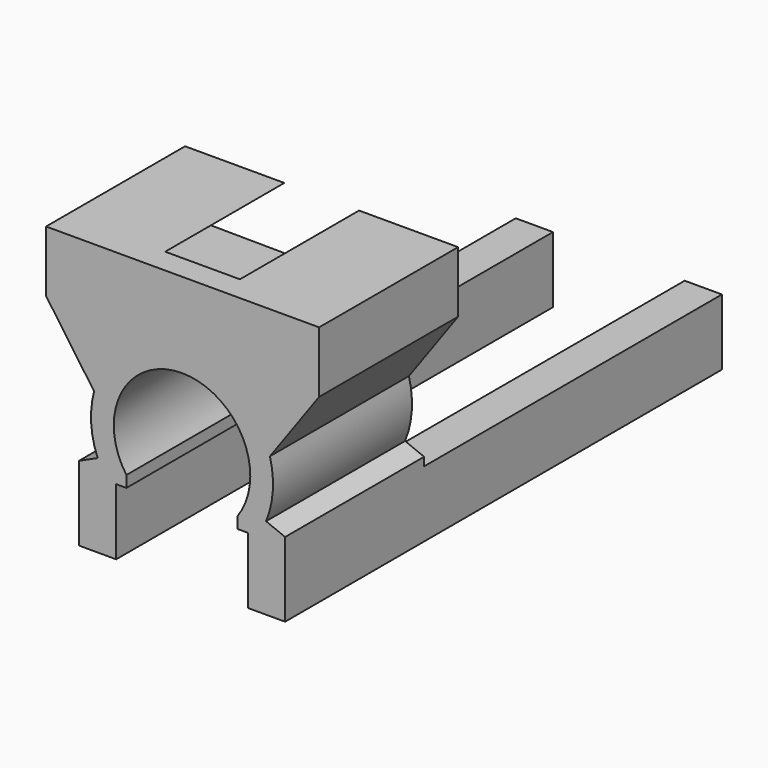
from build123d import *

# Parameters (mm, degrees)
F1_DEPTH = 7
F2_DEPTH = 6
F3_DEPTH = 15


with BuildPart() as f1:
    # F0 (on Front) → F1 (new body)
    with BuildSketch(Plane.XZ):
        with BuildLine():
            ThreePointArc((-3.477884, 0.719832), (-3.596369, -0.44229), (-3.343322, -1.5827))
            Line((-3.343322, -1.5827), (-3.322458, -1.593981))
            Line((-3.322458, -1.593981), (-3.322458, -2.283465))
            Line((-3.322458, -2.283465), (-2.589551, -2.283465))
            Line((-2.589551, -2.283465), (-2.176465, -2.283465))
            Line((-2.176465, -2.283465), (-2.176465, -1.823074))
            ThreePointArc((-2.176465, -1.823074), (0.063946, 2.521621), (2.304358, -1.823074))
            Line((2.304358, -1.823074), (2.304358, -2.283465))
            Line((2.304358, -2.283465), (2.717444, -2.283465))
            Line((2.717444, -2.283465), (3.450351, -2.283465))
            Line((3.450351, -2.283465), (3.450351, -1.634055))
            ThreePointArc((3.450351, -1.634055), (3.72254, -0.469953), (3.605777, 0.719832))
            ThreePointArc((3.605777, 0.719832), (2.307299, 2.6718), (0.091662, 3.438077))
            ThreePointArc((0.091662, 3.438077), (-2.157419, 2.688675), (-3.477884, 0.719832))
        make_face()
        Polygon((-3.322458, -2.283465), (-3.322458, -1.593981), (-4.089551, -1.943924), (-4.089551, -2.283465), align=None)
        with BuildLine():
            Line((-5.413338, 3.472093), (-3.477884, 0.719832))
            ThreePointArc((-3.477884, 0.719832), (-2.157419, 2.688675), (0.091662, 3.438077))
            Line((0.091662, 3.438077), (-4.408209, 3.472093))
            Line((-4.408209, 3.472093), (-1.413338, 5.938077))
            Line((-1.413338, 5.938077), (-5.413338, 5.938077))
            Line((-5.413338, 5.938077), (-5.413338, 3.472093))
        make_face()
        Polygon((-2.589551, -2.283465), (-3.322458, -2.283465), (-4.089551, -2.283465), (-4.089551, -4.949721), (-3.322458, -4.949721), (-2.589551, -4.949721), align=None)
        with BuildLine():
            Line((4.591534, 3.404061), (0.091662, 3.438077))
            ThreePointArc((0.091662, 3.438077), (2.307299, 2.6718), (3.605777, 0.719832))
            Line((3.605777, 0.719832), (5.587751, 3.472093))
            Line((5.587751, 3.472093), (5.587751, 5.938077))
            Line((5.587751, 5.938077), (1.596662, 5.938077))
            Line((1.596662, 5.938077), (4.591534, 3.404061))
        make_face()
        Polygon((-4.408209, 3.472093), (0.091662, 3.438077), (4.591534, 3.404061), (1.596662, 5.938077), (-1.413338, 5.938077), align=None)
        Polygon((4.217444, -1.943924), (3.450351, -1.634055), (3.450351, -2.283465), (4.217444, -2.283465), align=None)
        Polygon((4.217444, -2.283465), (3.450351, -2.283465), (2.717444, -2.283465), (2.717444, -4.949721), (3.450351, -4.949721), (4.217444, -4.949721), align=None)
    extrude(amount=F1_DEPTH)

    # F0 (on Front) → F2 (cut)
    with BuildSketch(Plane.XZ):
        Polygon((-4.408209, 3.472093), (0.091662, 3.438077), (4.591534, 3.404061), (1.596662, 5.938077), (-1.413338, 5.938077), align=None)
    extrude(amount=F2_DEPTH, mode=Mode.SUBTRACT)

    # F0 (on Front) → F3 (join)
    with BuildSketch(Plane.XZ):
        Polygon((4.217444, -2.283465), (3.450351, -2.283465), (2.717444, -2.283465), (2.717444, -4.949721), (3.450351, -4.949721), (4.217444, -4.949721), align=None)
        Polygon((-2.589551, -2.283465), (-3.322458, -2.283465), (-4.089551, -2.283465), (-4.089551, -4.949721), (-3.322458, -4.949721), (-2.589551, -4.949721), align=None)
    extrude(amount=-F3_DEPTH)


solid = f1.part
